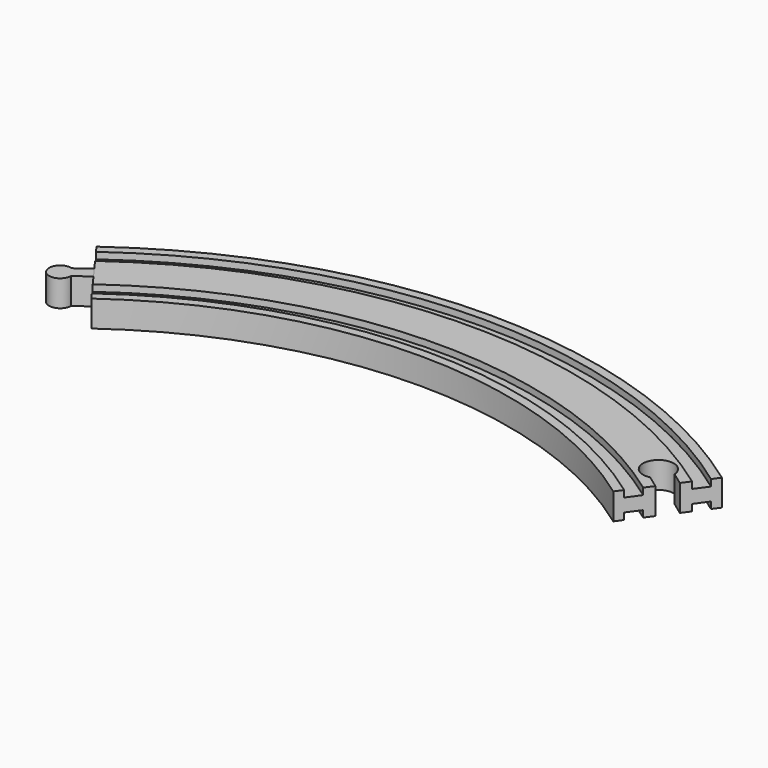
from build123d import *

# Parameters (mm, degrees)
POCKET_DEPTH = 12.001
PAD_DEPTH    = 6


with BuildPart() as body:
    # AdditivePipe: sweep along a path in Sketch
    with BuildLine(Plane.XY) as additivepipe_path:
        ThreePointArc((130.488326, 179.601773), (0, 222), (-130.488326, 179.601773))
    # Sketch002 (on DatumPlane) → AdditivePipe (sweep)
    with BuildSketch(Plane(origin=(-130.488326, 179.601773, 0), x_dir=(-0.587785, 0.809017, 0), z_dir=(0.809017, 0.587785, 0))):
        Polygon((-20, 6), (-20, -6), (-16, -6), (-16, -3), (-9, -3), (-9, -6), (9, -6), (9, -3), (16, -3), (16, -6), (20, -6), (20, 6), (16, 6), (16, 3), (9, 3), (9, 6), (-9, 6), (-9, 3), (-16, 3), (-16, 6), align=None)
    sweep(path=additivepipe_path.line)

    # Sketch004 (on Face18 of AdditivePipe) → Pocket (cut, through all)
    with BuildSketch(Plane(origin=(-130.488326, 179.601773, 6), x_dir=(0.587785, -0.809017, 0), z_dir=(0, 0, 1))):
        with BuildLine():
            Line((152.007651, 215.414301), (145.350255, 213.251182))
            ThreePointArc((145.350255, 213.251182), (134.983964, 205.15139), (148.131408, 204.691673))
            Line((154.788804, 206.854792), (148.131408, 204.691673))
            Line((152.007651, 215.414301), (154.788804, 206.854792))
        make_face()
    extrude(amount=-POCKET_DEPTH, mode=Mode.SUBTRACT)


with BuildPart() as body001:
    # Sketch005 → Pad (new body, symmetric)
    with BuildSketch(Plane.XY):
        with BuildLine():
            Line((-132.251682, 182.028824), (-128.72497, 177.174722))
            Line((-128.72497, 177.174722), (-135.197106, 172.47244))
            ThreePointArc((-138.723818, 177.326542), (-144.241615, 169.609423), (-135.197106, 172.47244))
            Line((-132.251682, 182.028824), (-138.723818, 177.326542))
        make_face()
    extrude(amount=PAD_DEPTH, both=True)


solid = Compound([body.part, body001.part])
